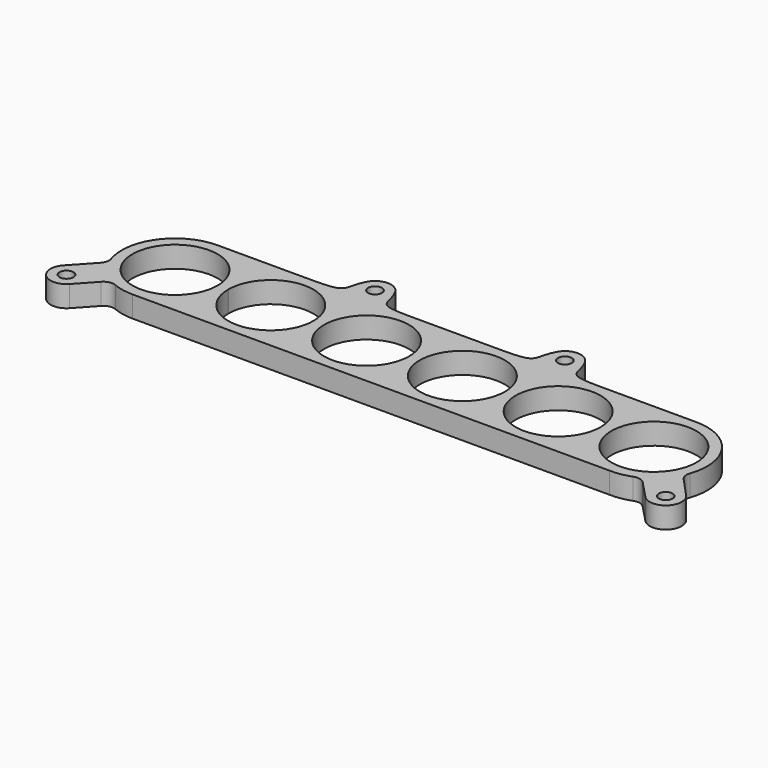
from build123d import *

# Parameters (mm, degrees)
F0_R     = 25.4
F0_R_2   = 4.1275
F1_DEPTH = 12.7


with BuildPart() as f1:
    # F0 (on Top) → F1 (new body)
    with BuildSketch(Plane.XY):
        with BuildLine():
            ThreePointArc((-191.15491, -17.713106), (-163.390953, -23.532485), (-147.550353, 0))
            ThreePointArc((-147.550353, 0), (-182.509753, 23.532485), (-191.15491, -17.713106))
        make_face()
        with BuildLine():
            ThreePointArc((-205.231967, -35.426211), (-205.535438, -33.872809), (-206.401226, -32.547831))
            ThreePointArc((-206.401226, -32.547831), (-213.183496, -36.979614), (-205.231967, -35.426211))
        make_face()
        with BuildLine():
            Line((-30.584532, -31.741811), (111.77946, -31.733606))
            ThreePointArc((111.77946, -31.733606), (118.077482, -31.308257), (124.166885, -29.645378))
            ThreePointArc((124.166885, -29.645378), (127.838724, -29.380343), (131.040555, -31.197188))
            Line((131.040555, -31.197188), (141.172096, -41.844783))
            Line((141.172096, -41.844783), (141.411178, -42.096042))
            ThreePointArc((141.411178, -42.096042), (154.767909, -42.295278), (155.188633, -28.943689))
            Line((155.188633, -28.943689), (144.08624, -16.920566))
            ThreePointArc((144.08624, -16.920566), (142.533246, -13.899676), (142.759478, -10.510519))
            ThreePointArc((142.759478, -10.510519), (138.700835, 18.36276), (112.798699, 31.75))
            Line((112.798699, 31.75), (54.914913, 31.748272))
            add(Edge.make_bspline(
                [(34.461284, 46.477678), (40.438314, 35.24064), (32.953378, 31.747617), (54.914913, 31.748272)],
                knots=[0, 0, 0, 0, 25.205285, 25.205285, 25.205285, 25.205285], degree=3))
            ThreePointArc((34.461284, 46.477678), (26.051319, 51.529683), (17.641958, 46.476674))
            add(Edge.make_bspline(
                [(17.641958, 46.476674), (11.741612, 35.380611), (18.965007, 31.836083), (-1.99318, 31.746574)],
                knots=[0, 0, 0, 0, 24.88749, 24.88749, 24.88749, 24.88749], degree=3))
            Line((-1.99318, 31.746574), (-59.179673, 31.744867))
            add(Edge.make_bspline(
                [(-78.81569, 46.473795), (-72.914682, 35.378084), (-80.137865, 31.833125), (-59.179673, 31.744867)],
                knots=[0, 0, 0, 0, 24.88749, 24.88749, 24.88749, 24.88749], degree=3))
            ThreePointArc((-78.81569, 46.473795), (-87.225353, 51.526302), (-95.635016, 46.473795))
            add(Edge.make_bspline(
                [(-95.635016, 46.473795), (-101.611376, 35.2364), (-94.126231, 31.743824), (-116.087767, 31.743168)],
                knots=[0, 0, 0, 0, 25.205285, 25.205285, 25.205285, 25.205285], degree=3))
            Line((-116.087767, 31.743168), (-172.2147, 31.741493))
            Line((-172.2147, 31.741493), (-173.687901, 31.741449))
            ThreePointArc((-173.687901, 31.741449), (-198.863185, 18.346354), (-203.134108, -9.849084))
            ThreePointArc((-203.134108, -9.849084), (-202.967109, -13.1739), (-204.505156, -16.126305))
            Line((-204.505156, -16.126305), (-216.358018, -28.965103))
            ThreePointArc((-216.358018, -28.965103), (-215.809214, -42.435232), (-202.339993, -41.864582))
            Line((-202.339993, -41.864582), (-192.268048, -30.883581))
            ThreePointArc((-192.268048, -30.883581), (-188.956209, -28.974893), (-185.148726, -29.313192))
            ThreePointArc((-185.148726, -29.313192), (-179.169151, -31.13503), (-172.948523, -31.750016))
            Line((-172.948523, -31.750016), (-30.584532, -31.741811))
        make_face()
        with BuildLine():
            ThreePointArc((-205.231967, -35.426211), (-213.183496, -36.979614), (-206.401226, -32.547831))
            ThreePointArc((-206.401226, -32.547831), (-205.535438, -33.872809), (-205.231967, -35.426211))
        make_face(mode=Mode.SUBTRACT)
        with BuildLine():
            ThreePointArc((-191.15491, -17.713106), (-182.509753, 23.532485), (-147.550353, 0))
            ThreePointArc((-147.550353, 0), (-163.390953, -23.532485), (-191.15491, -17.713106))
        make_face(mode=Mode.SUBTRACT)
        with BuildLine():
            ThreePointArc((-141.200344, 0.021538), (-115.789584, 25.399998), (-90.400353, 0))
            ThreePointArc((-90.400353, 0), (-115.789584, -25.399998), (-141.200344, -0.021538))
            ThreePointArc((-141.200344, -0.021538), (-141.200337, 0), (-141.200344, 0.021538))
        make_face(mode=Mode.SUBTRACT)
        with Locations((-58.650353, 0)):
            Circle(F0_R, mode=Mode.SUBTRACT)
        with Locations((148.190827, -35.405603)):
            Circle(F0_R_2, mode=Mode.SUBTRACT)
        with Locations((-1.500353, 0)):
            Circle(F0_R, mode=Mode.SUBTRACT)
        with Locations((55.649647, 0)):
            Circle(F0_R, mode=Mode.SUBTRACT)
        with Locations((112.799647, 0)):
            Circle(F0_R, mode=Mode.SUBTRACT)
        with Locations((-87.225353, 42.001302)):
            Circle(F0_R_2, mode=Mode.SUBTRACT)
        with Locations((26.051888, 42.004683)):
            Circle(F0_R_2, mode=Mode.SUBTRACT)
        with BuildLine():
            Line((141.411178, -42.096042), (141.172096, -41.844783))
            ThreePointArc((141.172096, -41.844783), (141.290493, -41.971501), (141.411178, -42.096042))
        make_face()
        with BuildLine():
            ThreePointArc((-172.2147, 31.741493), (-172.951301, 31.750016), (-173.687901, 31.741449))
            Line((-173.687901, 31.741449), (-172.2147, 31.741493))
        make_face()
    extrude(amount=F1_DEPTH)


solid = f1.part
